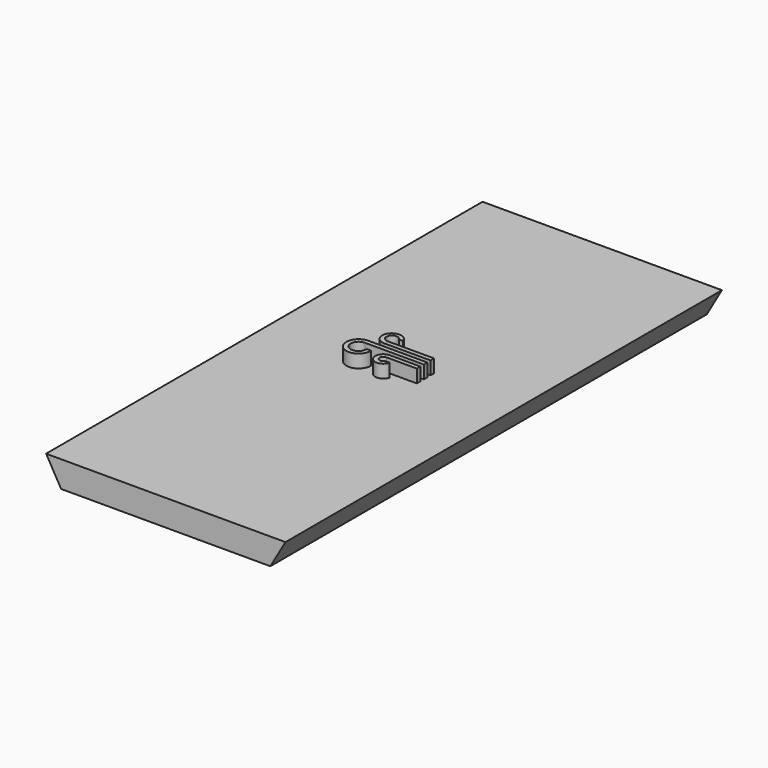
from build123d import *

# Parameters (mm, degrees)
F1_DEPTH  = 125
F2_R      = 1.85
F3_DEPTH  = 4
F4_W      = 7
F4_H      = 1
F4_W_2    = 13.5
F4_W_3    = 10.669845
F5_DEPTH  = 3
F7_R      = 6
F8_DEPTH  = 25
F10_R     = 6
F11_DEPTH = 25


with BuildPart() as f1:
    # F0 (on Front) → F1 (new body)
    with BuildSketch(Plane.XZ):
        Polygon((27.424138, 47.5), (-27.424138, 47.5), (-23.960036, 41.5), (23.960036, 41.5), align=None)
    extrude(amount=F1_DEPTH)

    # F2 (on face) → F3 (cut)
    with BuildSketch(Plane(origin=(0, 0, 41.5), x_dir=(1, 0, 0), z_dir=(0, 0, -1))):
        with BuildLine():
            ThreePointArc((-13.830018, 120), (-11.980018, 118.15), (-10.130018, 120))
            Line((-10.130018, 120), (-13.830018, 120))
        make_face()
        with BuildLine():
            Line((-13.830018, 120), (-10.130018, 120))
            ThreePointArc((-10.130018, 120), (-11.980018, 121.85), (-13.830018, 120))
        make_face()
        with Locations((11.980018, 120)):
            Circle(F2_R)
        with BuildLine():
            ThreePointArc((-13.830018, 23), (-11.980018, 21.15), (-10.130018, 23))
            Line((-10.130018, 23), (-13.830018, 23))
        make_face()
        with BuildLine():
            Line((-13.830018, 23), (-10.130018, 23))
            ThreePointArc((-10.130018, 23), (-11.980018, 24.85), (-13.830018, 23))
        make_face()
        with Locations((11.980018, 23)):
            Circle(F2_R)
    extrude(amount=-F3_DEPTH, mode=Mode.SUBTRACT)

    # F4 (on face) → F5 (join)
    with BuildSketch(Plane.XY.offset(47.5)):
        with Locations((3.868914, -61.811117)):
            Rectangle(F4_W, F4_H)
        with BuildLine():
            ThreePointArc((1.113392, -63.582205), (-0.367617, -63.596068), (0.368914, -62.311117))
            Line((0.368914, -62.311117), (0.368914, -61.311117))
            ThreePointArc((0.368914, -61.311117), (-1.08188, -64.318326), (2.174842, -63.582205))
            Line((2.174842, -63.582205), (1.113392, -63.582205))
        make_face()
        with BuildLine():
            ThreePointArc((-4.330444, -62.004982), (-7.367157, -63.429113), (-6.131086, -60.311117))
            Line((-6.131086, -60.311117), (-6.131086, -59.311117))
            ThreePointArc((-6.131086, -59.311117), (-8.074487, -64.136422), (-3.329243, -62.004982))
            Line((-3.329243, -62.004982), (-4.330444, -62.004982))
        make_face()
        with Locations((0.618914, -59.811117)):
            Rectangle(F4_W_2, F4_H)
        with Locations((2.000717, -57.811117)):
            Rectangle(F4_W_3, F4_H)
        with BuildLine():
            ThreePointArc((-3.334205, -57.311117), (-4.397356, -55.372555), (-2.191203, -55.518156))
            Line((-2.191203, -55.518156), (-1.248077, -55.518156))
            ThreePointArc((-1.248077, -55.518156), (-5.077231, -54.833641), (-3.334205, -58.311117))
            Line((-3.334205, -58.311117), (-3.334205, -57.311117))
        make_face()
    extrude(amount=F5_DEPTH)

    # F7 (on face) → F8 (cut)
    with BuildSketch(Plane(origin=(-23.960036, 0, 41.5), x_dir=(0.866025, 0, 0.5), z_dir=(0.5, 0, -0.866025))):
        with Locations((0, 62.5)):
            Circle(F7_R)
    extrude(amount=F8_DEPTH, mode=Mode.SUBTRACT)

    # F10 (on face) → F11 (cut)
    with BuildSketch(Plane(origin=(23.960036, 0, 41.5), x_dir=(0.866025, 0, -0.5), z_dir=(0.5, 0, 0.866025))):
        with Locations((0, -62.5)):
            Circle(F10_R)
    extrude(amount=-F11_DEPTH, mode=Mode.SUBTRACT)


solid = f1.part
